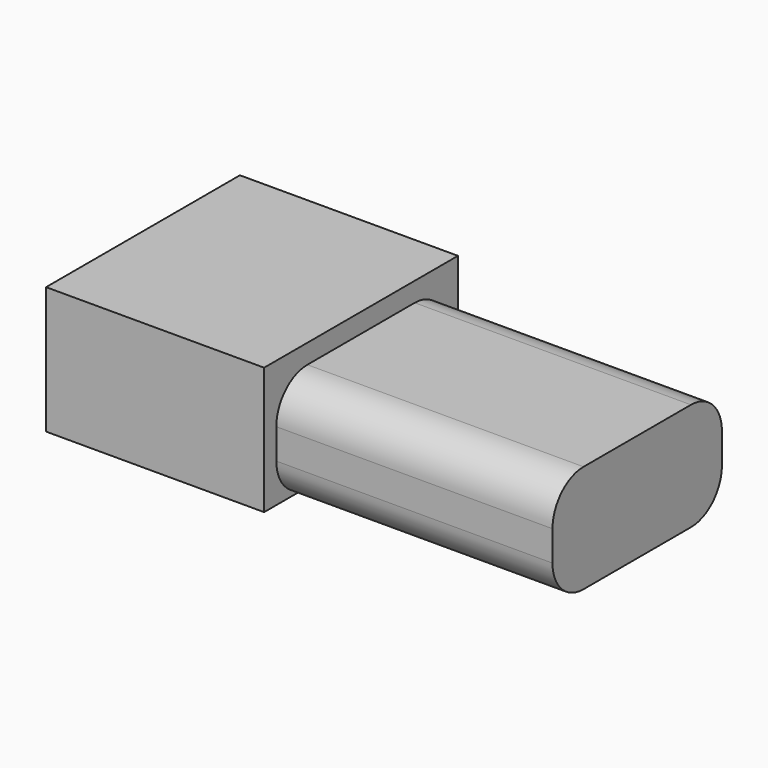
from build123d import *

# Parameters (mm, degrees)
BOX_W        = 97
BOX_H        = 43.7
BOX_DEPTH    = 22.25
FILLET_R     = 8
BOX001_W     = 45
BOX001_H     = 50
BOX001_DEPTH = 26.25


with BuildPart() as fillet_body:
    # Box → Box (new body)
    with BuildSketch(Plane.XY):
        with Locations((48.5, 21.85)):
            Rectangle(BOX_W, BOX_H)
    extrude(amount=BOX_DEPTH)

    # Fillet
    fillet_edges = [fillet_body.edges().sort_by_distance(p)[0] for p in [
        (48.5, 0, 0),
        (48.5, 0, 22.25),
        (48.5, 43.7, 0),
        (48.5, 43.7, 22.25),
    ]]
    fillet(fillet_edges, radius=FILLET_R)


with BuildPart() as cube001:
    # Box001 → Box001 (new body)
    with BuildSketch(Plane(origin=(-5, -3.15, 0), x_dir=(1, 0, 0), z_dir=(0, 0, 1))):
        with Locations((22.5, 25)):
            Rectangle(BOX001_W, BOX001_H)
    extrude(amount=BOX001_DEPTH)


solid = Compound([fillet_body.part, cube001.part])
